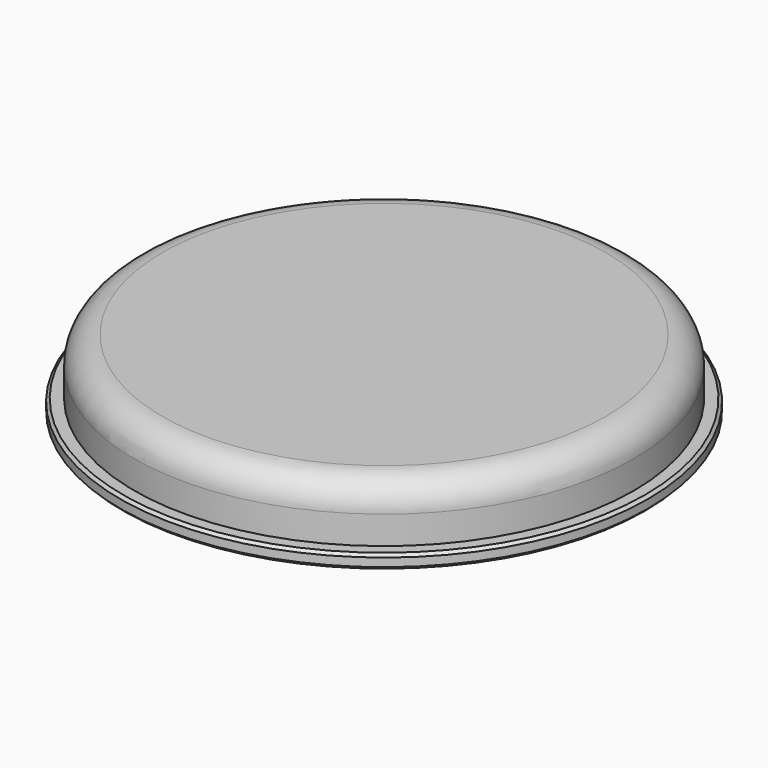
from build123d import *

# Parameters (mm, degrees)
SKETCH_R     = 94
PAD_DEPTH    = 5
SKETCH001_R  = 89
PAD001_DEPTH = 20
FILLET_R     = 10
CHAMFER_SIZE = 1


with BuildPart() as part:
    # Sketch → Pad (new body)
    with BuildSketch(Plane.XY):
        Circle(SKETCH_R)
    extrude(amount=PAD_DEPTH)

    # Sketch001 → Pad001 (new body)
    with BuildSketch(Plane.XY.offset(5)):
        Circle(SKETCH001_R)
    extrude(amount=PAD001_DEPTH)

    # Fillet
    fillet_edges = [part.edges().sort_by_distance(p)[0] for p in [
        (-89, 0, 25),
    ]]
    fillet(fillet_edges, radius=FILLET_R)

    # Chamfer
    chamfer_edges = [part.edges().sort_by_distance(p)[0] for p in [
        (-94, 0, 0),
        (-94, 0, 5),
    ]]
    chamfer(chamfer_edges, length=CHAMFER_SIZE)


solid = part.part
